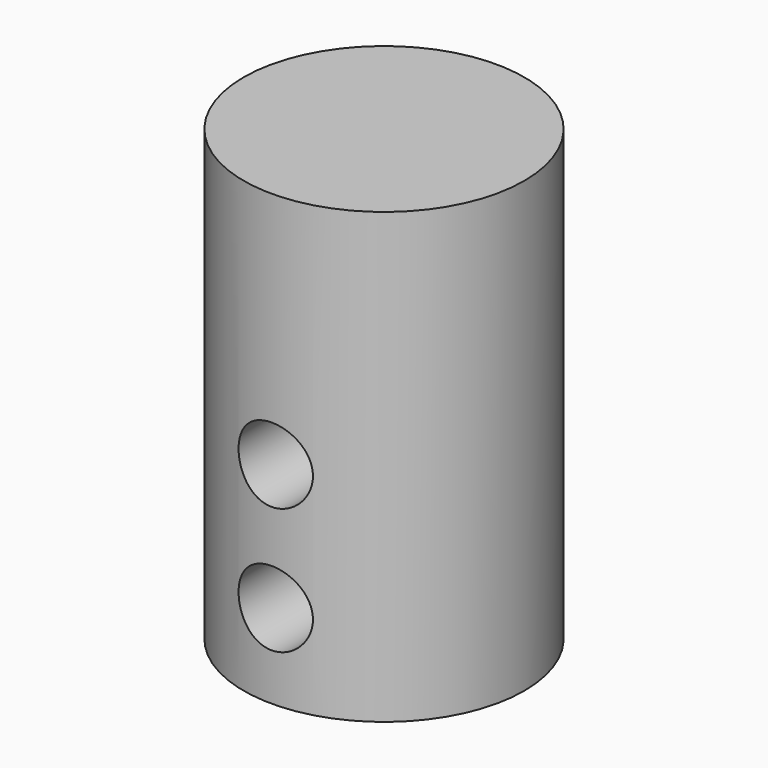
from build123d import *

# Parameters (mm, degrees)
SKETCH051_R       = 10
PAD041_DEPTH      = 4
PAD041_DEPTH_BACK = 28
SKETCH052_R       = 4
POCKET_DEPTH      = 20
SKETCH053_R       = 2.65
POCKET005_DEPTH   = 27
SKETCH054_R       = 2.65
POCKET006_DEPTH   = 11


with BuildPart() as part:
    # Sketch051 → Pad041 (new body, two sides)
    with BuildSketch(Plane.XY) as pad041_sk:
        Circle(SKETCH051_R)
    extrude(amount=PAD041_DEPTH)
    extrude(pad041_sk.sketch, amount=-PAD041_DEPTH_BACK)

    # Sketch052 (on Face2 of Pad041) → Pocket (cut)
    with BuildSketch(Plane(origin=(0, 0, -28), x_dir=(1, 0, 0), z_dir=(0, 0, -1))):
        Circle(SKETCH052_R)
    extrude(amount=-POCKET_DEPTH, mode=Mode.SUBTRACT)

    # Sketch053 → Pocket005 (cut)
    with BuildSketch(Plane.XZ):
        with Locations((0, -22)):
            Circle(SKETCH053_R)
        with Locations((0, -13)):
            Circle(SKETCH053_R)
    extrude(amount=POCKET005_DEPTH, mode=Mode.SUBTRACT)

    # Sketch054 → Pocket006 (cut)
    with BuildSketch(Plane.YZ):
        with Locations((0, -13)):
            Circle(SKETCH054_R)
        with Locations((0, -22)):
            Circle(SKETCH054_R)
    extrude(amount=-POCKET006_DEPTH, mode=Mode.SUBTRACT)


solid = part.part
